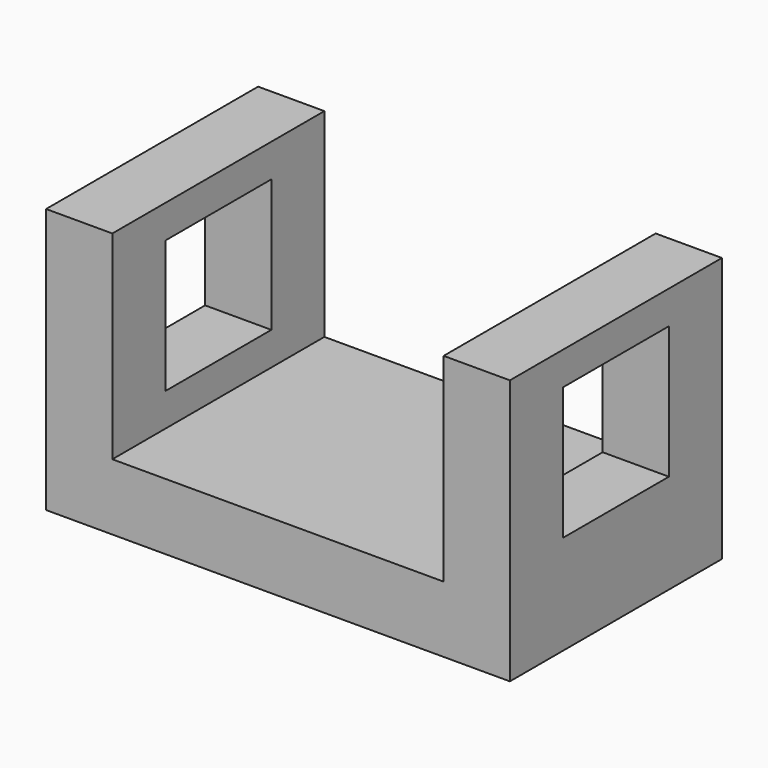
from build123d import *

# Parameters (mm, degrees)
F1_DEPTH = 50.8
F2_W     = 25.4
F2_H     = 25.4
F3_DEPTH = 88.901


with BuildPart() as f1:
    # F0 (on Front) → F1 (new body)
    with BuildSketch(Plane.XZ):
        Polygon((-29.798846, 28.491933), (-42.498846, 28.491933), (-42.498846, -22.308067), (46.401154, -22.308067), (46.401154, 28.491933), (33.701154, 28.491933), (33.701154, -9.608067), (-29.798846, -9.608067), align=None)
    extrude(amount=F1_DEPTH)

    # F2 (on face) → F3 (cut, through all)
    with BuildSketch(Plane.YZ.offset(46.401154)):
        with Locations((-25.4, 9.441933)):
            Rectangle(F2_W, F2_H)
    extrude(amount=-F3_DEPTH, mode=Mode.SUBTRACT)


solid = f1.part
